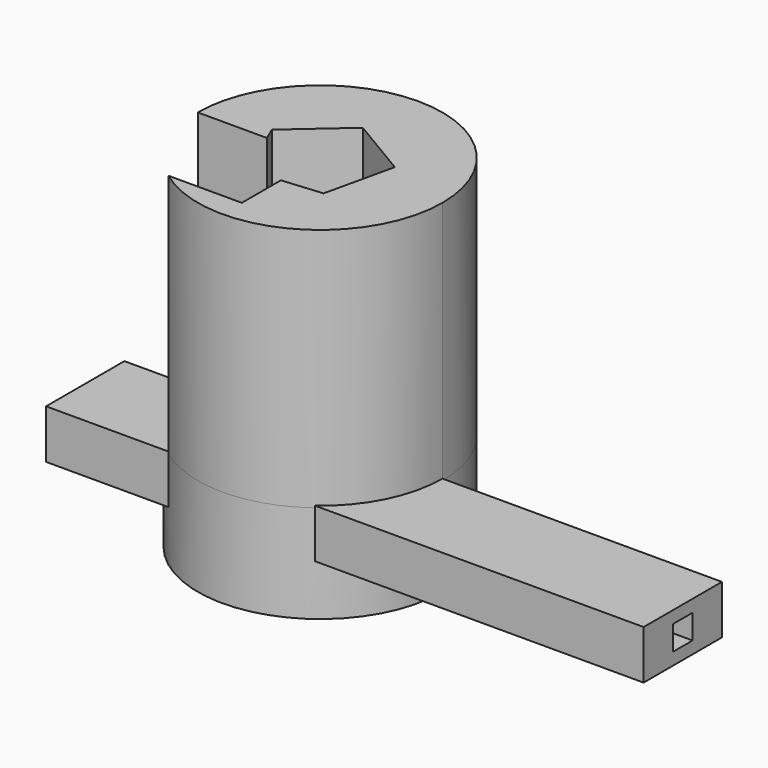
from build123d import *

# Parameters (mm, degrees)
F0_R     = 63.5
F1_DEPTH = 50.8
F2_W     = 50.8
F2_H     = 25.4
F2_W_2   = 12.7
F2_H_2   = 12.7
F3_DEPTH = 101.6
F5_DEPTH = 208.534
F6_DEPTH = 127


with BuildPart() as f1:
    # F0 (on Top) → F1 (new body)
    with BuildSketch(Plane.XY):
        Circle(F0_R)
        Polygon((-16.065903, -26.974127), (-30.618556, 6.944118), (-2.857406, 31.265828), (28.852582, 12.379227), (20.689283, -23.615045), align=None, mode=Mode.SUBTRACT)
    extrude(amount=F1_DEPTH)

    # F2 (on Right) → F3 (join)
    with BuildSketch(Plane.YZ):
        with Locations((-25.4, 39.080285)):
            Rectangle(F2_W, F2_H)
        with Locations((-25.4, 39.080285)):
            Rectangle(F2_W_2, F2_H_2, mode=Mode.SUBTRACT)
    extrude(amount=-F3_DEPTH)

    # F2 (on Right) → F5 (join)
    with BuildSketch(Plane.YZ):
        with Locations((-25.4, 39.080285)):
            Rectangle(F2_W, F2_H)
        with Locations((-25.4, 39.080285)):
            Rectangle(F2_W_2, F2_H_2, mode=Mode.SUBTRACT)
    extrude(amount=F5_DEPTH)

    # F4 (on face) → F6 (join)
    with BuildSketch(Plane.XY.offset(50.8)):
        with BuildLine():
            Line((0, -50.8), (-38.1, -50.8))
            ThreePointArc((-38.1, -50.8), (28.398063, -56.796127), (63.5, 0))
            ThreePointArc((63.5, 0), (0, 63.5), (-63.5, 0))
            Line((-63.5, 0), (-27.639176, 0))
            Line((-27.639176, 0), (-30.618556, 6.944118))
            Line((-30.618556, 6.944118), (-2.857406, 31.265828))
            Line((-2.857406, 31.265828), (28.852582, 12.379227))
            Line((28.852582, 12.379227), (20.689283, -23.615045))
            Line((20.689283, -23.615045), (0, -25.505853))
            Line((0, -25.505853), (0, -50.8))
        make_face()
    extrude(amount=F6_DEPTH)


solid = f1.part
